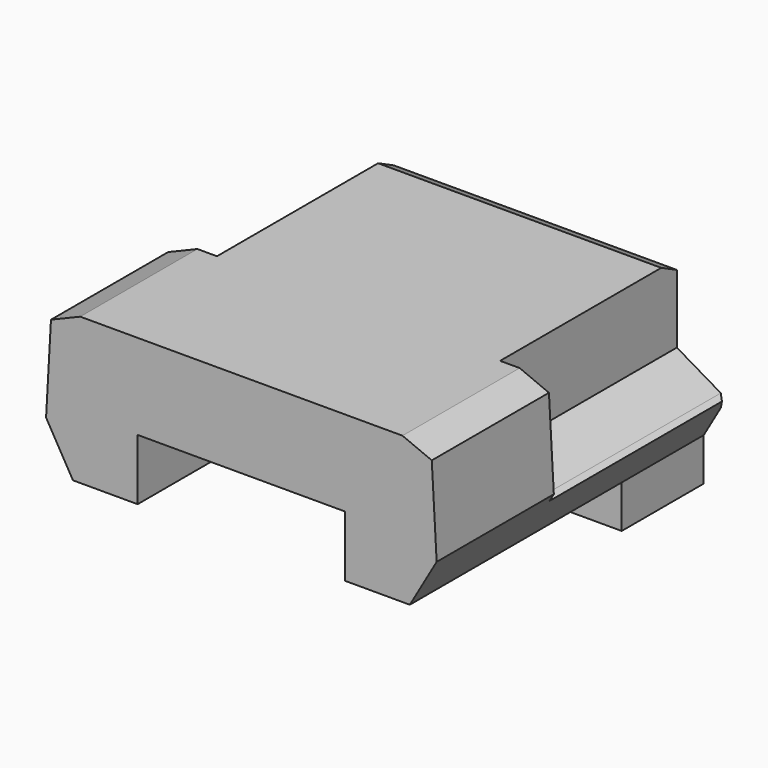
from build123d import *

# Parameters (mm, degrees)
F1_DEPTH      = 1505
F3_DEPTH      = 734.6581049648
F3_DEPTH_BACK = 865.3438950352
F5_DEPTH      = 600.001
F6_W          = 850
F6_H          = 250
F7_DEPTH      = 600
F9_DEPTH      = 905
F10_W         = 1380
F10_H         = 175
F11_DEPTH     = 420


with BuildPart() as f1:
    # F0 (on Front) → F1 (new body)
    with BuildSketch(Plane.XZ):
        Polygon((-734.6571049648, 190.5255888326), (-624.6571049648, 0), (755.3428950352, 0), (865.3428950352, 190.5255888326), (845.3428950352, 550), (725.3428950352, 600), (-594.6571049648, 600), (-714.6571049648, 550), align=None)
    extrude(amount=F1_DEPTH)

    # F2 (on Right) → F3 (cut, two sides)
    with BuildSketch(Plane.YZ) as f3_sk:
        Polygon((0, 600), (-80, 600), (0, 560), align=None)
    extrude(amount=-F3_DEPTH, mode=Mode.SUBTRACT)
    extrude(f3_sk.sketch, amount=F3_DEPTH_BACK, mode=Mode.SUBTRACT)

    # F4 (on face) → F5 (cut, through all)
    with BuildSketch(Plane.XY.offset(600)):
        Polygon((865.3428950352, 0), (825.3428950352, 0), (865.3428950352, -40), align=None)
    extrude(amount=-F5_DEPTH, mode=Mode.SUBTRACT)

    # F6 (on face) → F7 (cut)
    with BuildSketch(Plane.XZ.offset(1505)):
        with Locations((65.3428950352, 125)):
            Rectangle(F6_W, F6_H)
    extrude(amount=-F7_DEPTH, mode=Mode.SUBTRACT)

    # F8 (on face) → F9 (cut)
    with BuildSketch(Plane(origin=(0, 0, 0), x_dir=(-1, 0, 0), z_dir=(0, 1, 0))):
        Polygon((514.6571049648, 600), (514.6571049648, 560), (690.6571049648, 560), (594.6571049648, 600), align=None)
        Polygon((514.6571049648, 560), (514.6571049648, 280), (717.6104983043, 161), (734.6571049648, 190.5255888326), (714.6571049648, 550), (690.6571049648, 560), align=None)
        Polygon((-645.3428950352, 280), (-645.3428950352, 560), (-821.3428950352, 560), (-825.3428950352, 558.3333333333), (-825.3428950352, 174.4585274109), align=None)
        Polygon((-821.3428950352, 560), (-645.3428950352, 560), (-645.3428950352, 600), (-725.3428950352, 600), align=None)
        Polygon((-848.2962883747, 161), (-825.3428950352, 174.4585274109), (-825.3428950352, 558.3333333333), (-845.3428950352, 550), (-865.3428950352, 190.5255888326), align=None)
    extrude(amount=-F9_DEPTH, mode=Mode.SUBTRACT)

    # F10 (on face) → F11 (join)
    with BuildSketch(Plane(origin=(0, 0, 0), x_dir=(-1, 0, 0), z_dir=(0, 1, 0))):
        with Locations((-65.3428950352, -87.5)):
            Rectangle(F10_W, F10_H)
    extrude(amount=-F11_DEPTH)


solid = f1.part
